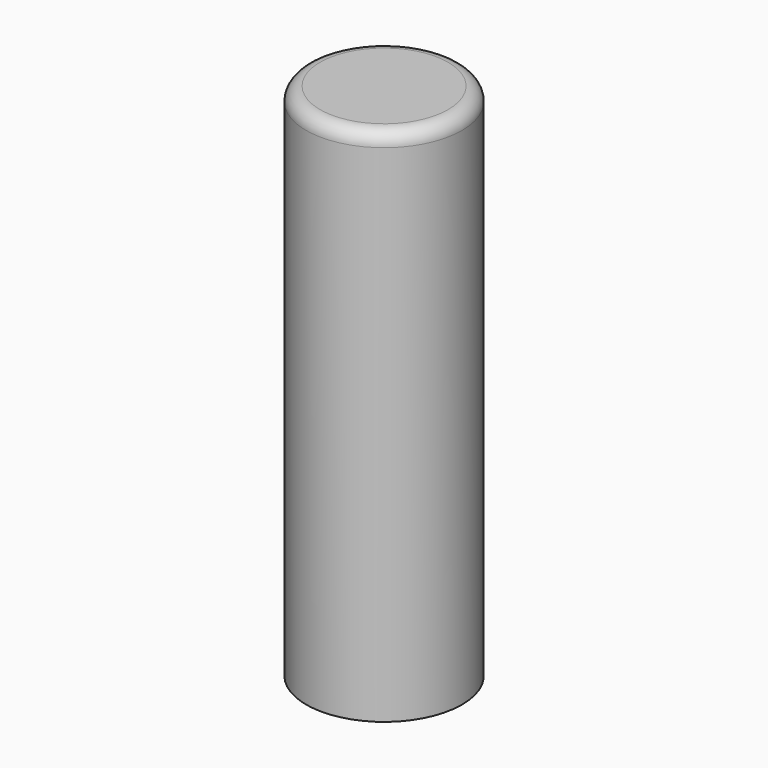
from build123d import *

# Parameters (mm, degrees)
SKETCH_R     = 14.2875
PAD_DEPTH    = 95.25
SKETCH001_R  = 11.1125
POCKET_DEPTH = 92.075
FILLET_R     = 2.54


with BuildPart() as part:
    # Sketch → Pad (new body)
    with BuildSketch(Plane.XY):
        Circle(SKETCH_R)
    extrude(amount=PAD_DEPTH)

    # Sketch001 (on Face2 of Pad) → Pocket (cut)
    with BuildSketch(Plane(origin=(0, 0, 0), x_dir=(1, 0, 0), z_dir=(0, 0, -1))):
        Circle(SKETCH001_R)
    extrude(amount=-POCKET_DEPTH, mode=Mode.SUBTRACT)

    # Fillet
    fillet_edges = [part.edges().sort_by_distance(p)[0] for p in [
        (-14.2875, 0, 95.25),
    ]]
    fillet(fillet_edges, radius=FILLET_R)


solid = part.part
